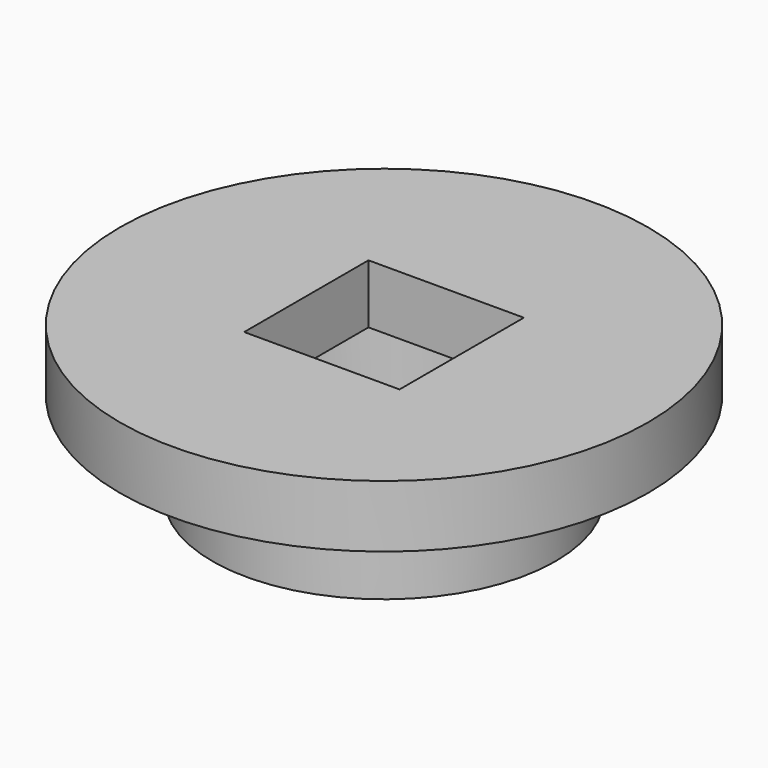
from build123d import *

# Parameters (mm, degrees)
F0_R     = 8.5
F1_DEPTH = 2
F2_R     = 5.525
F3_DEPTH = 2.9
F4_R     = 4.7
F5_DEPTH = 3
F6_W     = 5
F6_H     = 5
F7_DEPTH = 25


with BuildPart() as f1:
    # F0 (on Top) → F1 (new body)
    with BuildSketch(Plane.XY):
        Circle(F0_R)
    extrude(amount=F1_DEPTH)

    # F2 (on face) → F3 (join)
    with BuildSketch(Plane(origin=(0, 0, 0), x_dir=(1, 0, 0), z_dir=(0, 0, -1))):
        Circle(F2_R)
    extrude(amount=F3_DEPTH)

    # F4 (on face) → F5 (cut)
    with BuildSketch(Plane(origin=(0, 0, -2.9), x_dir=(1, 0, 0), z_dir=(0, 0, -1))):
        Circle(F4_R)
    extrude(amount=-F5_DEPTH, mode=Mode.SUBTRACT)

    # F6 (on face) → F7 (cut)
    with BuildSketch(Plane.XY.offset(2)):
        Rectangle(F6_W, F6_H)
    extrude(amount=-F7_DEPTH, mode=Mode.SUBTRACT)


solid = f1.part
